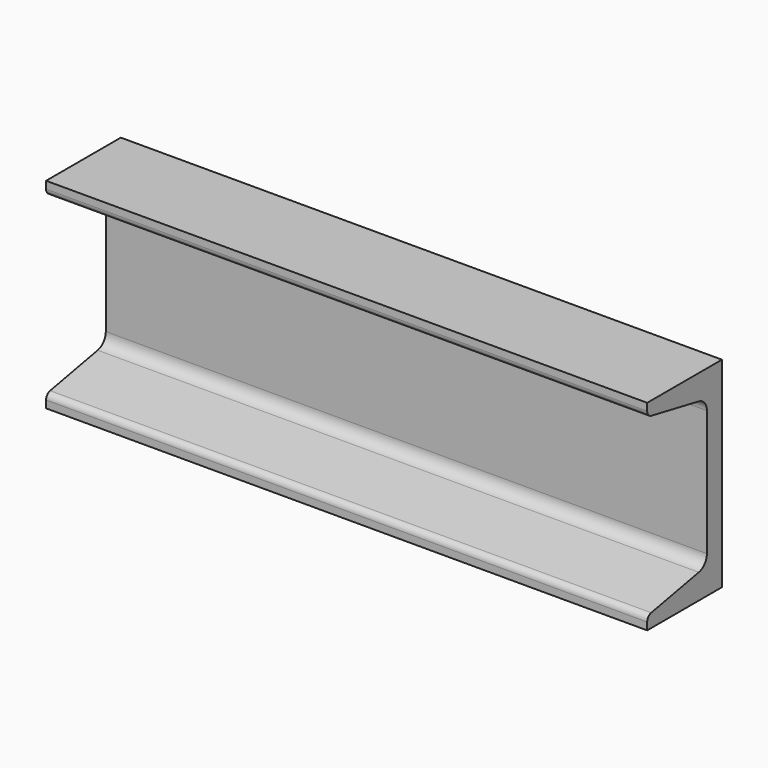
from build123d import *

# Parameters (mm, degrees)
F1_DEPTH = 304.8


with BuildPart() as f1:
    # F0 (on Right) → F1 (new body)
    with BuildSketch(Plane.YZ):
        with BuildLine():
            Line((0, 0), (0, 50.8))
            Line((0, 50.8), (-47.36958, 50.8))
            Line((-47.36958, 50.8), (-47.36958, 47.071686))
            ThreePointArc((-47.36958, 47.071686), (-46.642815, 45.05011), (-44.795237, 43.954021))
            Line((-44.795237, 43.954021), (-14.673686, 38.150726))
            ThreePointArc((-14.673686, 38.150726), (-10.978529, 35.958548), (-9.525, 31.915396))
            Line((-9.525, 31.915396), (-9.525, 0))
            Line((-9.525, 0), (-9.525, -31.915396))
            ThreePointArc((-9.525, -31.915396), (-10.978529, -35.958548), (-14.673686, -38.150726))
            Line((-14.673686, -38.150726), (-44.795237, -43.954021))
            ThreePointArc((-44.795237, -43.954021), (-46.642815, -45.05011), (-47.36958, -47.071686))
            Line((-47.36958, -47.071686), (-47.36958, -50.8))
            Line((-47.36958, -50.8), (0, -50.8))
            Line((0, -50.8), (0, 0))
        make_face()
    extrude(amount=F1_DEPTH)


solid = f1.part
